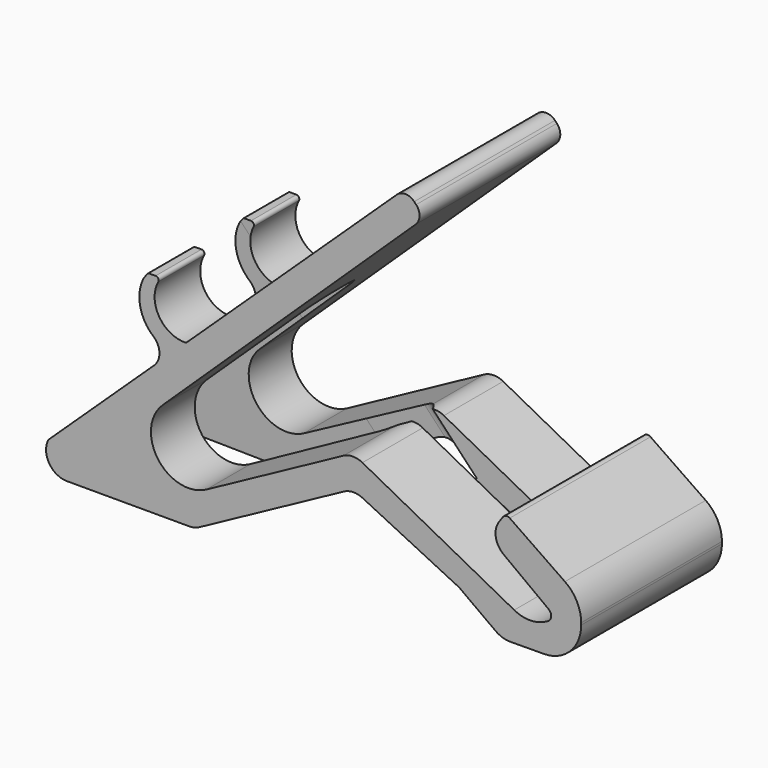
from build123d import *

# Parameters (mm, degrees)
F1_DEPTH      = 75
F3_DEPTH      = 30
F3_DEPTH_BACK = 90
F4_W          = 60.3201809678
F4_H          = 11.285925284
F5_DEPTH      = 25
F5_DEPTH_BACK = 10


with BuildPart() as f1:
    # F0 (on Front) → F1 (new body)
    with BuildSketch(Plane.XZ):
        with BuildLine():
            Line((31.9086386453, 77.6905462364), (-57.5139995569, -6.7641266773))
            ThreePointArc((-57.5139995569, -6.7641266773), (-57.9219339607, -7.0245091068), (-58.3971183008, -7.1162115075))
            ThreePointArc((-58.3971183008, -7.1162115075), (-69.4887089259, -0.8420637784), (-69.7767442137, 11.8978478381))
            ThreePointArc((-69.7767442137, 11.8978478381), (-69.8049165196, 13.1707831552), (-70.9122465225, 13.7992561182))
            Line((-70.9122465225, 13.7992561182), (-73.6895077641, 13.7992561182))
            ThreePointArc((-73.6895077641, 13.7992561182), (-74.0062961207, 13.726942606), (-74.2603264098, 13.5243278998))
            Line((-74.2603264098, 13.5243278998), (-75.8568685996, 11.5219015441))
            ThreePointArc((-75.8568685996, 11.5219015441), (-77.5081657489, 0.4349594479), (-71.8249073519, -9.226698863))
            ThreePointArc((-71.8249073519, -9.226698863), (-69.2584995586, -14.5376929324), (-71.5152183851, -19.9874935806))
            Line((-71.5152183851, -19.9874935806), (-116.5955893061, -62.5633788748))
            ThreePointArc((-116.5955893061, -62.5633788748), (-116.2574535182, -71.2949238612), (-108.6162978034, -75.5336681331))
            Line((-108.6162978034, -75.5336681331), (-56.4006080373, -75.5336681323))
            ThreePointArc((-56.4006080373, -75.5336681323), (-54.2860073929, -75.2694967603), (-52.3013870442, -74.4932207332))
            Line((-52.3013870442, -74.4932207332), (9.3968417232, -41.0165915738))
            ThreePointArc((9.3968417232, -41.0165915738), (13.3164182298, -39.9780216691), (17.2759733413, -40.8518813589))
            Line((17.2759733413, -40.8518813589), (58.3416101428, -60.9595264103))
            ThreePointArc((58.3416101428, -60.9595264103), (58.4992740431, -61.0453458085), (58.6489560893, -61.1444324351))
            Line((58.6489560893, -61.1444324351), (74.0206310135, -72.3025880245))
            ThreePointArc((74.0206310135, -72.3025880245), (77.0205825857, -73.8239393845), (80.345354257, -74.3339518648))
            Line((80.345354257, -74.3339518648), (84.008830193, -74.3106924806))
            Line((84.008830193, -74.3106924806), (94.6409664598, -74.2431891184))
            ThreePointArc((94.6409664598, -74.2431891184), (105.8729254369, -69.5279758333), (110.516733495, -58.2663069736))
            Line((110.516733495, -58.2663069736), (110.516733495, -57.3599657599))
            ThreePointArc((110.516733495, -57.3599657599), (108.6798338491, -49.9220331846), (103.5915117273, -44.1943792767))
            Line((103.5915117273, -44.1943792767), (80.0608191671, -28.0158812776))
            ThreePointArc((80.0608191671, -28.0158812776), (78.5255862483, -27.6803464363), (77.1934165925, -28.5139217195))
            Line((77.1934165925, -28.5139217195), (75.6298542432, -30.6832325702))
            ThreePointArc((75.6298542432, -30.6832325702), (74.1211917974, -36.9659668973), (77.4545705219, -42.5010729739))
            Line((77.4545705219, -42.5010729739), (96.61347436, -56.7622144645))
            ThreePointArc((96.61347436, -56.7622144645), (97.7016607764, -59.4192137179), (95.8614861172, -61.6231991836))
            ThreePointArc((95.8614861172, -61.6231991836), (88.9594846076, -63.5579741018), (81.9860902339, -61.8988328387))
            Line((81.9860902339, -61.8988328387), (17.2686592302, -27.626202898))
            ThreePointArc((17.2686592302, -27.626202898), (13.2025716128, -26.6269144318), (9.1467925766, -27.6672520504))
            Line((9.1467925766, -27.6672520504), (-49.2817682282, -59.3698033465))
            ThreePointArc((-49.2817682282, -59.3698033465), (-69.8161964781, -54.7329590263), (-67.9299516201, -33.7661960635))
            Line((-67.9299516201, -33.7661960635), (39.9862620913, 69.185022562))
            ThreePointArc((39.9862620913, 69.185022562), (41.616957342, 72.8737890727), (40.1616811978, 76.6352165564))
            Line((40.1616811978, 76.6352165564), (39.3396363558, 77.4969058889))
            ThreePointArc((39.3396363558, 77.4969058889), (35.6640993707, 79.1272730212), (31.9086386453, 77.6905462364))
        make_face()
    extrude(amount=F1_DEPTH)

    # F2 (on face) → F3 (cut, two sides)
    with BuildSketch(Plane(origin=(-23.7385230795, 0, 25.1349189755), x_dir=(0.7270133187, 0, 0.686623357), z_dir=(-0.686623357, 0, 0.7270133187))) as f3_sk:
        Polygon((-46.4578510571, -24.0551400103), (-143.9990401268, -21.0843849927), (-143.4555607145, -53.2556629783), (-46.4578510571, -50.6537381076), align=None)
        with BuildLine():
            Line((-18.389185364, -24.9100109652), (-46.4578510571, -24.0551400103))
            Line((-46.4578510571, -24.0551400103), (-46.4578510571, -50.6537381076))
            Line((-46.4578510571, -50.6537381076), (-18.4254588112, -49.9017803673))
            ThreePointArc((-18.4254588112, -49.9017803673), (-11.5283625374, -46.8809946351), (-8.6936083649, -39.905376223))
            Line((-8.6936083649, -39.905376223), (-8.6936083649, -34.905376223))
            ThreePointArc((-8.6936083649, -34.905376223), (-11.5157176577, -27.9427700303), (-18.389185364, -24.9100109652))
        make_face()
    extrude(amount=F3_DEPTH, mode=Mode.SUBTRACT)
    extrude(f3_sk.sketch, amount=-F3_DEPTH_BACK, mode=Mode.SUBTRACT)

    # F4 (on face) → F5 (cut, two sides)
    with BuildSketch(Plane(origin=(-7.6435291417, 0, -14.433370614), x_dir=(0.8837288425, 0, -0.4679992873), z_dir=(0.4679992873, 0, 0.8837288425))) as f5_sk:
        with Locations((58.3499459846, -37.2247295454)):
            Rectangle(F4_W, F4_H)
        with BuildLine():
            ThreePointArc((3.452683799, -39.8676921874), (4.3313634554, -41.989012531), (6.452683799, -42.8676921874))
            Line((6.452683799, -42.8676921874), (28.1898555007, -42.8676921874))
            Line((28.1898555007, -42.8676921874), (28.1898555007, -31.5817669034))
            Line((28.1898555007, -31.5817669034), (6.452683799, -31.5817669034))
            ThreePointArc((6.452683799, -31.5817669034), (4.3313634554, -32.4604465598), (3.452683799, -34.5817669034))
            Line((3.452683799, -34.5817669034), (3.452683799, -39.8676921874))
        make_face()
        with Locations((58.3499459846, -37.2247295454)):
            Rectangle(F4_W, F4_H)
    extrude(amount=-F5_DEPTH, mode=Mode.SUBTRACT)
    extrude(f5_sk.sketch, amount=F5_DEPTH_BACK, mode=Mode.SUBTRACT)


solid = f1.part
